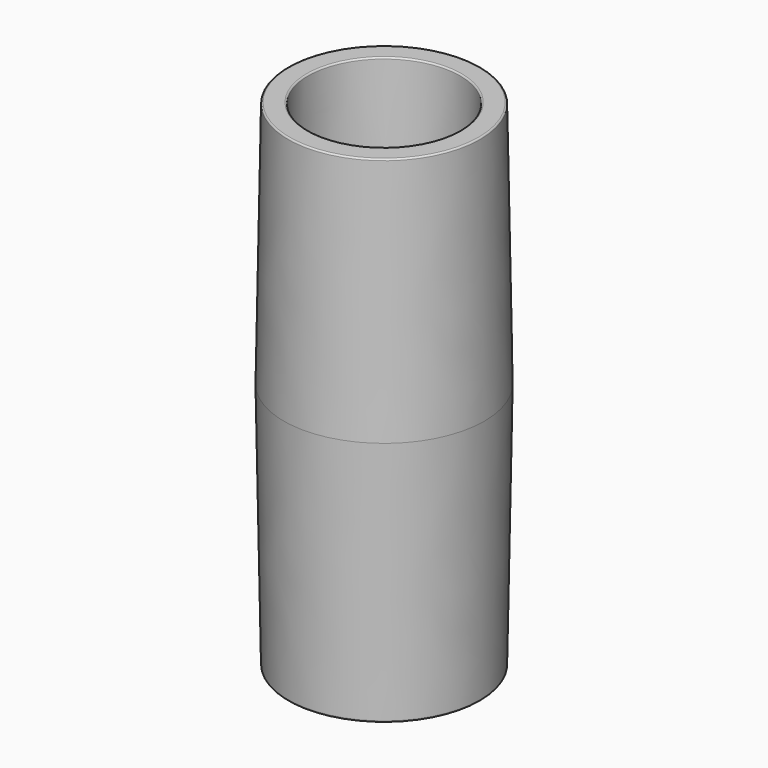
from build123d import *

# Parameters (mm, degrees)
F3_DEPTH = 13.97


with BuildPart() as f1:
    # F0 (on Front) → F1 (revolve)
    with BuildSketch(Plane.XZ):
        with BuildLine():
            Line((7.876178, -20.195216), (8.228687, 0))
            Line((8.228687, 0), (7.876178, 20.195216))
            ThreePointArc((7.876178, 20.195216), (7.838213, 20.283583), (7.749197, 20.32))
            Line((7.749197, 20.32), (6.347803, 20.32))
            ThreePointArc((6.347803, 20.32), (6.258787, 20.283583), (6.220822, 20.195216))
            Line((6.220822, 20.195216), (5.868313, 0))
            Line((5.868313, 0), (7.041552, -20.200364))
            ThreePointArc((7.041552, -20.200364), (7.081178, -20.285369), (7.168338, -20.32))
            Line((7.168338, -20.32), (7.749197, -20.32))
            ThreePointArc((7.749197, -20.32), (7.838213, -20.283583), (7.876178, -20.195216))
        make_face()
    revolve(axis=Axis((0, 0, 5.243593), (0, 0, -1)))

    # F2 (on Top) → F3 (join, symmetric)
    with BuildSketch(Plane.XY):
        with BuildLine():
            Line((-2.459506, 0.112758), (1.096672, 6.948127))
            ThreePointArc((1.096672, 6.948127), (0.550133, 7.015935), (0, 7.041552))
            Line((0, 7.041552), (-2.903674, 0.532035))
            Line((-2.903674, 0.532035), (-2.959069, 0.407848))
            ThreePointArc((-2.959069, 0.407848), (-2.841238, 0.036922), (-2.459506, 0.112758))
        make_face()
        with BuildLine():
            ThreePointArc((5.486935, -4.655437), (5.818928, -4.216025), (6.116179, -3.752404))
            Line((6.116179, -3.752404), (1.930609, 2.01701))
            Line((1.930609, 2.01701), (1.850757, 2.127077))
            ThreePointArc((1.850757, 2.127077), (1.470611, 2.210495), (1.345421, 1.841988))
            Line((1.345421, 1.841988), (5.486935, -4.655437))
        make_face()
        with BuildLine():
            Line((0.940514, -2.31779), (-6.757178, -2.655735))
            ThreePointArc((-6.757178, -2.655735), (-6.542632, -3.162955), (-6.28975, -3.652192))
            Line((-6.28975, -3.652192), (0.799493, -2.912089))
            Line((0.799493, -2.912089), (0.93474, -2.897969))
            ThreePointArc((0.93474, -2.897969), (1.197055, -2.610462), (0.940514, -2.31779))
        make_face()
    extrude(amount=F3_DEPTH, both=True)

    # F4 (on Front) → F5 (revolve, cut)
    with BuildSketch(Plane.XZ):
        Polygon((6.11216, 13.97), (0, 13.97), (0, 7.85784), align=None)
        Polygon((0, -7.290308), (0, -13.97), (6.679692, -13.97), align=None)
    revolve(axis=Axis((0, 0, 5.243593), (0, 0, -1)), mode=Mode.SUBTRACT)


solid = f1.part
